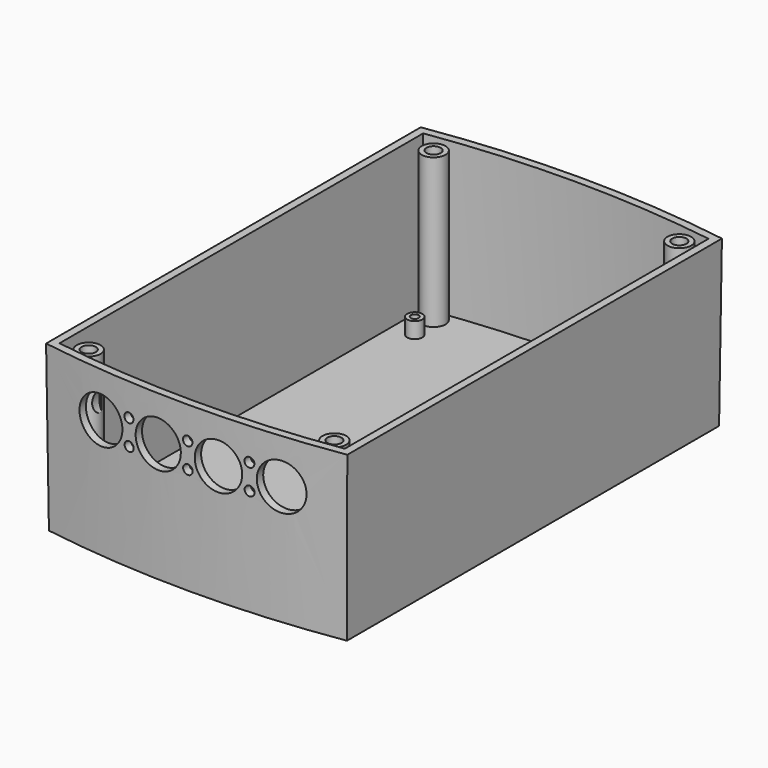
from build123d import *

# Parameters (mm, degrees)
SKETCH004_R   = 2.4
SKETCH004_R_2 = 1.25
PAD_DEPTH     = 8.7
SKETCH005_R   = 3.75
SKETCH005_R_2 = 2.25
PAD001_DEPTH  = 50.8
SKETCH006_R   = 7.3
SKETCH006_R_2 = 1.5
POCKET_DEPTH  = 10


with BuildPart() as part:
    # Sketch → AdditiveLoft section 0
    with BuildSketch(Plane.XY):
        with BuildLine():
            Line((-47, 73.35), (-47, -73.35))
            ThreePointArc((-47, -73.35), (0, -77), (47, -73.35))
            Line((47, -73.35), (47, 73.35))
            ThreePointArc((47, 73.35), (0, 77), (-47, 73.35))
        make_face()
    # Sketch001 (on DatumPlane) → AdditiveLoft section 1
    with BuildSketch(Plane.XY.offset(52)):
        with BuildLine():
            Line((47.5, -73.85), (47.5, 73.85))
            ThreePointArc((47.5, 73.85), (0, 77.5), (-47.5, 73.85))
            Line((-47.5, 73.85), (-47.5, -73.85))
            ThreePointArc((-47.5, -73.85), (0, -77.5), (47.5, -73.85))
        make_face()
    loft()

    # Sketch002 → SubtractiveLoft section 0
    with BuildSketch(Plane.XY.offset(3.7)):
        with BuildLine():
            ThreePointArc((-44.5, -71.202651), (0, -74.5), (44.5, -71.202651))
            Line((44.5, 71.202651), (44.5, -71.202651))
            ThreePointArc((44.5, 71.202651), (0, 74.5), (-44.5, 71.202651))
            Line((-44.5, 71.202651), (-44.5, -71.202651))
        make_face()
    # Sketch003 (on DatumPlane) → SubtractiveLoft section 1
    with BuildSketch(Plane.XY.offset(52)):
        with BuildLine():
            Line((45, -71.699266), (45, 71.699266))
            ThreePointArc((45, 71.699266), (0, 75), (-45, 71.699266))
            Line((-45, 71.699266), (-45, -71.699266))
            ThreePointArc((-45, -71.699266), (0, -75), (45, -71.699266))
        make_face()
    loft(mode=Mode.SUBTRACT)

    # Sketch004 → Pad (new body)
    with BuildSketch(Plane.XY):
        with Locations((-37.5, 59)):
            Circle(SKETCH004_R)
        with Locations((-37.5, 59)):
            Circle(SKETCH004_R_2, mode=Mode.SUBTRACT)
        with Locations((37.5, 59)):
            Circle(SKETCH004_R)
        with Locations((37.5, 59)):
            Circle(SKETCH004_R_2, mode=Mode.SUBTRACT)
        with Locations((37.5, -59)):
            Circle(SKETCH004_R)
        with Locations((37.5, -59)):
            Circle(SKETCH004_R_2, mode=Mode.SUBTRACT)
        with Locations((-37.5, -59)):
            Circle(SKETCH004_R)
        with Locations((-37.5, -59)):
            Circle(SKETCH004_R_2, mode=Mode.SUBTRACT)
    extrude(amount=PAD_DEPTH)

    # Sketch005 → Pad001 (join)
    with BuildSketch(Plane.XY):
        with Locations((38.75, -68)):
            Circle(SKETCH005_R)
        with Locations((38.75, -68)):
            Circle(SKETCH005_R_2, mode=Mode.SUBTRACT)
        with Locations((-38.75, -68)):
            Circle(SKETCH005_R)
        with Locations((-38.75, -68)):
            Circle(SKETCH005_R_2, mode=Mode.SUBTRACT)
        with Locations((38.75, 68)):
            Circle(SKETCH005_R)
        with Locations((38.75, 68)):
            Circle(SKETCH005_R_2, mode=Mode.SUBTRACT)
        with Locations((-38.75, 68)):
            Circle(SKETCH005_R)
        with Locations((-38.75, 68)):
            Circle(SKETCH005_R_2, mode=Mode.SUBTRACT)
    extrude(amount=PAD001_DEPTH)

    # Sketch006 → Pocket (cut)
    with BuildSketch(Plane.XZ.offset(77.5)):
        with Locations((-28.5, 37.836)):
            Circle(SKETCH006_R)
        with Locations((-9.5, 37.836)):
            Circle(SKETCH006_R)
        with Locations((9.5, 37.836)):
            Circle(SKETCH006_R)
        with Locations((28.5, 37.836)):
            Circle(SKETCH006_R)
        with Locations((-19, 41.836)):
            Circle(SKETCH006_R_2)
        with Locations((-19, 33.836)):
            Circle(SKETCH006_R_2)
        with Locations((19, 41.836)):
            Circle(SKETCH006_R_2)
        with Locations((19, 33.836)):
            Circle(SKETCH006_R_2)
        with Locations((0, 33.836)):
            Circle(SKETCH006_R_2)
        with Locations((0, 41.836)):
            Circle(SKETCH006_R_2)
    extrude(amount=-POCKET_DEPTH, mode=Mode.SUBTRACT)


solid = part.part
